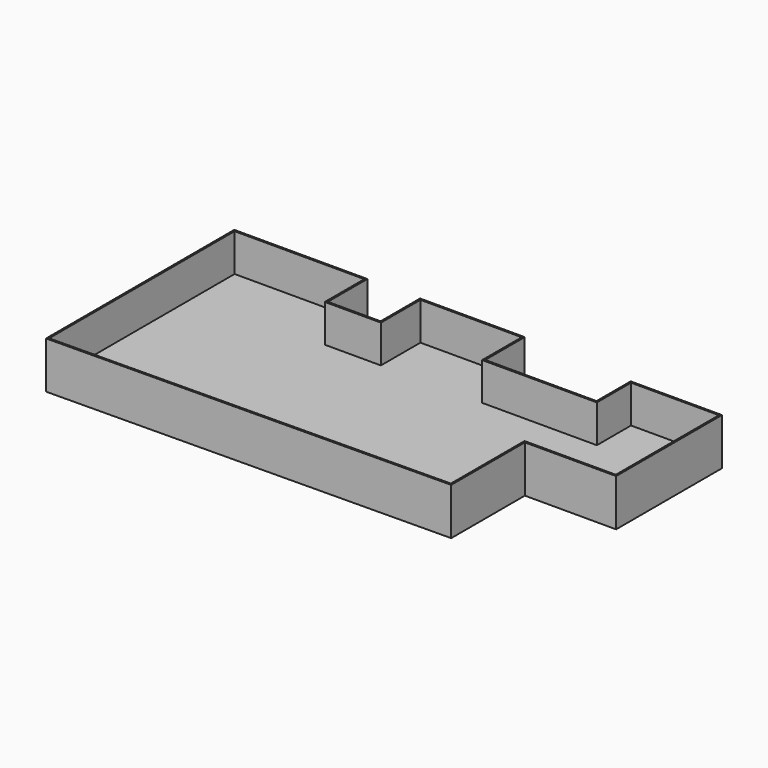
from build123d import *

# Parameters (mm, degrees)
F1_DEPTH = 55
F3_DEPTH = 225


with BuildPart() as f1:
    # F0 (on Top) → F1 (new body)
    with BuildSketch(Plane.XY):
        Polygon((795, 0), (0.130212, 0), (0.130212, -1405), (2400, -1380), (2400, -830), (2945, -830), (2945, -40), (2400, -40), (2400, -295), (1735, -295), (1735, 0), (1110, 0), (1110, -295), (795, -295), align=None)
    extrude(amount=F1_DEPTH)

    # F2 (on face) → F3 (join)
    with BuildSketch(Plane.XY.offset(55)):
        Polygon((795, 0), (0.130212, 0), (0.130212, -1405), (2400, -1380), (2400, -830), (2945, -830), (2945, -40), (2400, -40), (2400, -295), (1735, -295), (1735, 0), (1110, 0), (1110, -295), (795, -295), align=None)
        Polygon((10.130212, -10), (785, -10), (785, -305), (1120, -305), (1120, -10), (1725, -10), (1725, -305), (2410, -305), (2410, -50), (2935, -50), (2935, -820), (2390, -820), (2390, -1370.10363), (10.130212, -1394.895285), align=None, mode=Mode.SUBTRACT)
    extrude(amount=F3_DEPTH)


solid = f1.part
